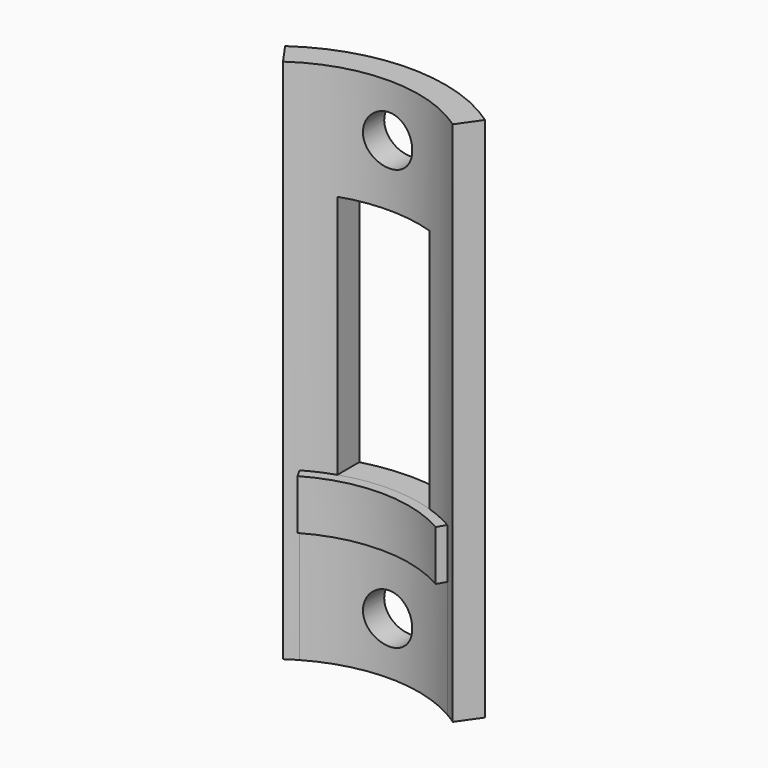
from build123d import *

# Parameters (mm, degrees)
F1_DEPTH = 40
F3_DEPTH = 12.7
F4_DEPTH = 8.89
F6_D     = 3.75
F7_W     = 7
F7_H     = 18.618289
F8_DEPTH = 25.4


with BuildPart() as f1:
    # F0 (on Top) → F1 (new body)
    with BuildSketch(Plane.XY):
        with BuildLine():
            ThreePointArc((-6.452735, 9.21546), (0, 11.25), (6.452735, 9.21546))
            Line((6.452735, 9.21546), (7.599888, 10.853765))
            ThreePointArc((7.599888, 10.853765), (0, 13.25), (-7.599888, 10.853765))
            Line((-7.599888, 10.853765), (-6.452735, 9.21546))
        make_face()
    extrude(amount=F1_DEPTH)

    # F2 (on Top) → F3 (join)
    with BuildSketch(Plane.XY):
        with BuildLine():
            ThreePointArc((-5.25, 9.093267), (0, 10.5), (5.25, 9.093267))
            Line((5.25, 9.093267), (5.625, 9.742786))
            ThreePointArc((5.625, 9.742786), (0, 11.25), (-5.625, 9.742786))
            Line((-5.625, 9.742786), (-5.25, 9.093267))
        make_face()
    extrude(amount=F3_DEPTH)

    # F2 (on Top) → F4 (cut)
    with BuildSketch(Plane.XY):
        with BuildLine():
            ThreePointArc((-5.25, 9.093267), (0, 10.5), (5.25, 9.093267))
            Line((5.25, 9.093267), (5.625, 9.742786))
            ThreePointArc((5.625, 9.742786), (0, 11.25), (-5.625, 9.742786))
            Line((-5.625, 9.742786), (-5.25, 9.093267))
        make_face()
    extrude(amount=F4_DEPTH, mode=Mode.SUBTRACT)

    # F6 (through all)
    with Locations(Plane.XZ):
        with Locations((0, 36), (0, 4)):
            Hole(F6_D / 2)

    # F7 (on Front) → F8 (cut)
    with BuildSketch(Plane.XZ):
        with Locations((0, 22.009144)):
            Rectangle(F7_W, F7_H)
    extrude(amount=-F8_DEPTH, mode=Mode.SUBTRACT)


solid = f1.part
